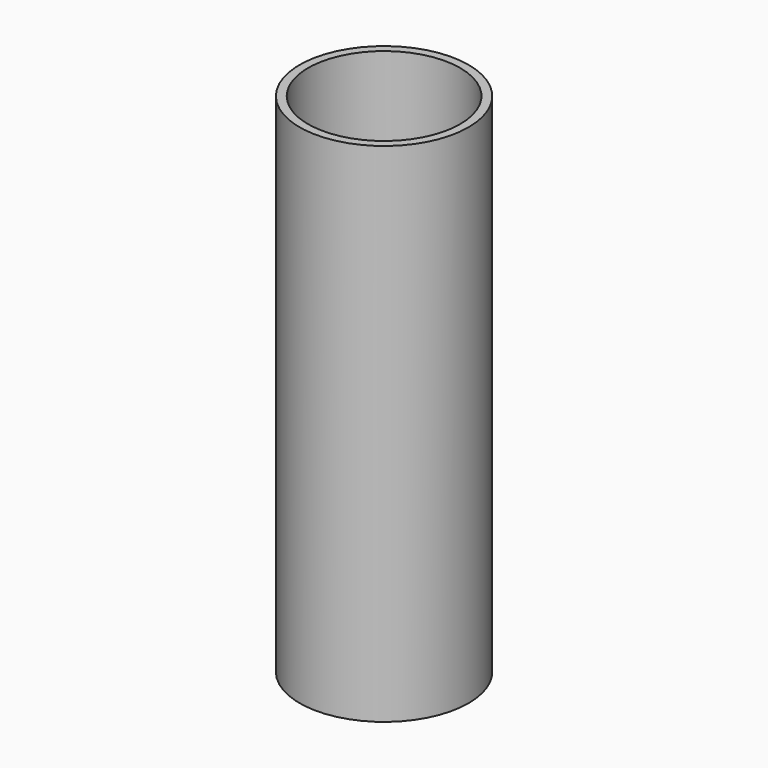
from build123d import *

# Parameters (mm, degrees)
F0_R          = 10
F0_R_2        = 9
F1_DEPTH      = 30
F2_R          = 2.75
F3_DEPTH      = 25
F3_DEPTH_BACK = 9


with BuildPart() as f1:
    # F0 (on Top) → F1 (new body, symmetric)
    with BuildSketch(Plane.XY):
        Circle(F0_R)
        Circle(F0_R_2, mode=Mode.SUBTRACT)
    extrude(amount=F1_DEPTH, both=True)

    # F2 (on Right) → F3 (cut, two sides)
    with BuildSketch(Plane.YZ) as f3_sk:
        with Locations((0, -21)):
            Circle(F2_R)
    extrude(amount=-F3_DEPTH, mode=Mode.SUBTRACT)
    extrude(f3_sk.sketch, amount=F3_DEPTH_BACK, mode=Mode.SUBTRACT)


solid = f1.part
